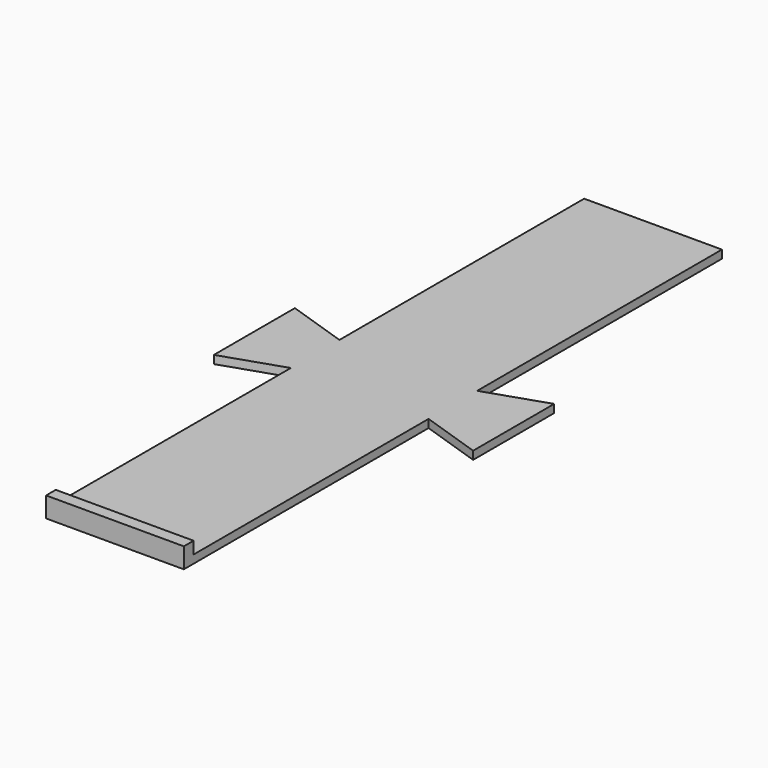
from build123d import *

# Parameters (mm, degrees)
F0_W     = 360
F0_H     = 360
F1_DEPTH = 2
F0_W_2   = 366
F0_H_2   = 366
F2_DEPTH = 5
F3_W     = 34
F3_H     = 3
F4_DEPTH = 25


with BuildPart() as f1:
    # F0 (on Top) → F1 (new body)
    with BuildSketch(Plane.XY):
        Rectangle(F0_W, F0_H)
    extrude(amount=F1_DEPTH)

    # F0 (on Top) → F2 (join)
    with BuildSketch(Plane.XY):
        Rectangle(F0_W_2, F0_H_2)
        Rectangle(F0_W, F0_H, mode=Mode.SUBTRACT)
    extrude(amount=F2_DEPTH)

    # F3 (on face) → F4 (intersect)
    with BuildSketch(Plane.XY.offset(5)):
        Polygon((17, -92.5), (17, -17), (-17, -17), (-17, -92.5), (-32, -87.5), (-32, -112.5), (-17, -107.5), (-17, -180), (17, -180), (17, -107.5), (32, -112.5), (32, -87.5), align=None)
        with Locations((0, -181.5)):
            Rectangle(F3_W, F3_H)
    extrude(amount=-F4_DEPTH, mode=Mode.INTERSECT)


solid = f1.part
